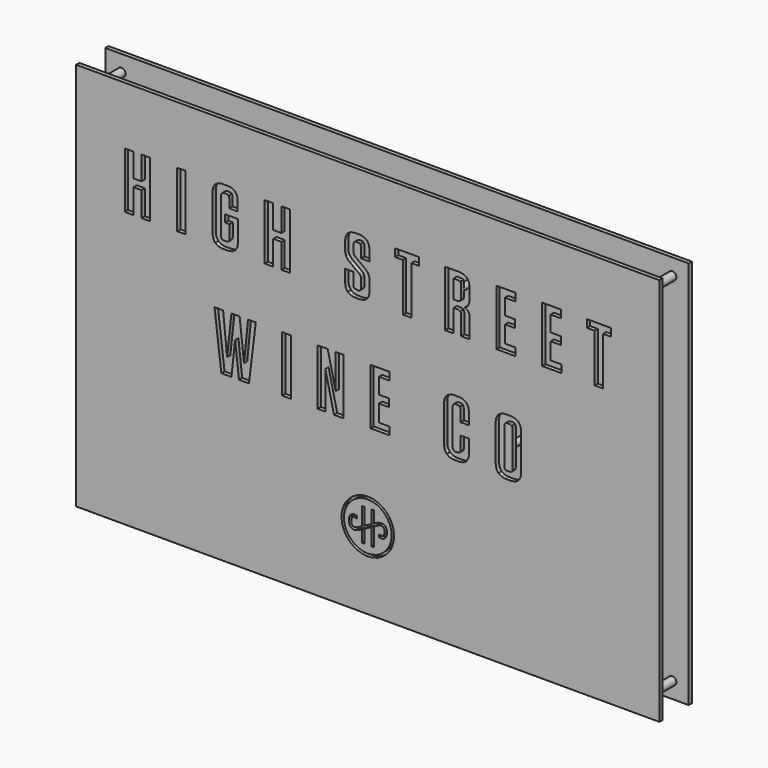
from build123d import *

# Parameters (mm, degrees)
F0_W     = 457.199644
F0_H     = 304.80127
F0_W_2   = 6.684772
F0_H_2   = 43.83532
F0_W_3   = 6.683248
F0_H_3   = 43.836082
F1_DEPTH = 3.175
F2_R     = 3.175
F2_R_2   = 2.38125
F3_DEPTH = 25.4
F4_W     = 457.2
F4_H     = 304.8
F5_DEPTH = 3.175


with BuildPart() as f1:
    # F0 (on Front) → F1 (new body)
    with BuildSketch(Plane.XZ):
        Rectangle(F0_W, F0_H)
        Polygon((-100.434064, 20.406741), (-97.055102, -10.837545), (-93.925568, 20.406741), (-87.793246, 20.406741), (-93.124706, -23.428579), (-100.985244, -23.428579), (-103.989302, 3.007487), (-106.8943, -23.428579), (-114.83053, -23.428579), (-120.16199, 20.406741), (-113.402796, 20.406741), (-110.271992, -10.837545), (-106.8943, 20.406741), align=None, mode=Mode.SUBTRACT)
        with Locations((-63.722428, -1.510919)):
            Rectangle(F0_W_2, F0_H_2, mode=Mode.SUBTRACT)
        Polygon((-19.200292, -23.428579), (-26.485774, -23.428579), (-33.294752, 6.061583), (-33.242174, -1.650111), (-33.242174, -23.428579), (-39.251814, -23.428579), (-39.251814, 20.406741), (-31.417692, 20.406741), (-25.1571, -6.630289), (-25.208408, 0.677291), (-25.208408, 20.406741), (-19.200292, 20.406741), align=None, mode=Mode.SUBTRACT)
        Polygon((-1.041578, -71.218933), (-0.002718, -71.218933), (1.035126, -71.218933), (4.152214, -71.637779), (8.02292, -72.843517), (11.528882, -74.748263), (14.585264, -77.271245), (17.106976, -80.326357), (19.011722, -83.830795), (20.215936, -87.700485), (20.637322, -90.813509), (20.637322, -91.852369), (20.637322, -92.890213), (20.215936, -96.007301), (19.011722, -99.878007), (17.106976, -103.383969), (14.585264, -106.440351), (11.528882, -108.962063), (8.02292, -110.866809), (4.152214, -112.071023), (1.035126, -112.491139), (-0.002718, -112.491139), (-1.041578, -112.491139), (-4.154602, -112.071023), (-8.024292, -110.866809), (-11.52873, -108.962063), (-14.583842, -106.440351), (-17.106824, -103.383969), (-19.011062, -99.878007), (-20.2168, -96.007301), (-20.6359, -92.890213), (-20.6359, -91.852369), (-20.6359, -90.813509), (-20.2168, -87.700485), (-19.011062, -83.830795), (-17.106824, -80.326357), (-14.583842, -77.271245), (-11.52873, -74.748263), (-8.024292, -72.843517), (-4.154602, -71.637779), align=None, mode=Mode.SUBTRACT)
        Polygon((1.979244, 20.406741), (16.872788, 20.406741), (16.872788, 14.322933), (8.688654, 14.322933), (8.688654, 1.931543), (16.57256, 1.931543), (16.57256, -4.151503), (8.688654, -4.151503), (8.688654, -17.370679), (17.024426, -17.370679), (17.024426, -23.428579), (1.979244, -23.428579), align=None, mode=Mode.SUBTRACT)
        Polygon((72.826702, -5.453507), (79.410382, -5.453507), (79.410382, -15.668879), (79.410382, -16.563213), (78.899842, -19.246469), (77.375842, -21.794089), (74.835842, -23.319867), (72.163762, -23.828375), (71.274762, -23.828375), (67.942282, -23.828375), (67.048202, -23.828375), (64.363422, -23.319867), (61.815802, -21.794089), (60.291802, -19.246469), (59.783802, -16.563213), (59.783802, -15.668879), (59.783802, 12.644247), (59.783802, 13.535787), (60.291802, 16.207867), (61.815802, 18.750153), (64.363422, 20.273137), (67.048202, 20.780121), (67.942282, 20.780121), (71.198562, 20.780121), (72.087562, 20.780121), (74.754562, 20.285583), (77.276782, 18.784697), (78.783002, 16.261715), (79.283382, 13.586841), (79.283382, 12.695047), (79.283382, 3.733927), (72.699702, 3.733927), (72.699702, 12.319127), (72.699702, 12.605639), (72.544762, 13.461365), (72.074862, 14.266037), (71.295082, 14.741525), (70.469582, 14.897227), (70.195262, 14.897227), (69.070042, 14.897227), (68.783022, 14.897227), (67.927042, 14.741525), (67.121862, 14.266037), (66.646882, 13.461365), (66.491942, 12.605639), (66.491942, 12.319127), (66.491942, -15.367381), (66.491942, -15.650845), (66.646882, -16.505301), (67.121862, -17.301845), (67.927042, -17.768951), (68.783022, -17.922113), (69.070042, -17.922113), (70.322262, -17.922113), (70.596582, -17.922113), (71.419542, -17.768951), (72.201862, -17.301845), (72.671762, -16.505301), (72.826702, -15.650845), (72.826702, -15.367381), align=None, mode=Mode.SUBTRACT)
        Polygon((112.918062, -23.828375), (112.029062, -23.828375), (108.473062, -23.828375), (107.576442, -23.828375), (104.878962, -23.319867), (102.321182, -21.794089), (100.792102, -19.244945), (100.286642, -16.561689), (100.286642, -15.668879), (100.286642, 12.644247), (100.286642, 13.535787), (100.792102, 16.207867), (102.321182, 18.750153), (104.878962, 20.274661), (107.576442, 20.781391), (108.473062, 20.781391), (112.029062, 20.781391), (112.918062, 20.781391), (115.590142, 20.274661), (118.132682, 18.750153), (119.654142, 16.207867), (120.162142, 13.535787), (120.162142, 12.644247), (120.162142, -15.668879), (120.162142, -16.561689), (119.654142, -19.244945), (118.132682, -21.794089), (115.590142, -23.319867), align=None, mode=Mode.SUBTRACT)
        Polygon((-183.813628, 88.623775), (-177.331294, 88.623775), (-177.331294, 107.099735), (-170.647792, 107.099735), (-170.647792, 63.263653), (-177.331294, 63.263653), (-177.331294, 82.541237), (-183.813628, 82.541237), (-183.813628, 63.263653), (-190.499924, 63.263653), (-190.499924, 107.099735), (-183.813628, 107.099735), align=None, mode=Mode.SUBTRACT)
        with Locations((-146.102248, 85.181694)):
            Rectangle(F0_W_3, F0_H_3, mode=Mode.SUBTRACT)
        Polygon((-108.363436, 81.412461), (-111.86762, 81.412461), (-111.86762, 87.196041), (-101.828524, 87.196041), (-101.828524, 71.023353), (-101.828524, 70.129019), (-102.337286, 67.446271), (-103.86408, 64.896619), (-106.413224, 63.371349), (-109.09648, 62.862587), (-109.990814, 62.862587), (-113.544528, 62.862587), (-114.436322, 62.862587), (-117.108402, 63.371349), (-119.650942, 64.896619), (-121.173418, 67.446271), (-121.680656, 70.129019), (-121.680656, 71.023353), (-121.680656, 99.337495), (-121.680656, 100.229035), (-121.173418, 102.901115), (-119.650942, 105.443655), (-117.108402, 106.965115), (-114.436322, 107.473115), (-113.544528, 107.473115), (-110.039074, 107.473115), (-109.151344, 107.473115), (-106.484852, 106.967655), (-103.96187, 105.448735), (-102.45565, 102.921435), (-101.955524, 100.272215), (-101.955524, 99.388295), (-101.955524, 92.328111), (-108.538442, 92.328111), (-108.538442, 99.012375), (-108.538442, 99.299395), (-108.691096, 100.152835), (-109.152868, 100.958015), (-109.934172, 101.432995), (-110.765006, 101.590475), (-111.04212, 101.590475), (-112.444962, 101.590475), (-112.730458, 101.590475), (-113.58339, 101.432995), (-114.378156, 100.958015), (-114.845516, 100.152835), (-114.9969, 99.299395), (-114.9969, 99.012375), (-114.9969, 71.325359), (-114.9969, 71.041387), (-114.845516, 70.186931), (-114.378156, 69.390387), (-113.58339, 68.923281), (-112.730458, 68.770119), (-112.444962, 68.770119), (-110.941536, 68.770119), (-110.656294, 68.770119), (-109.800568, 68.923281), (-108.995896, 69.390387), (-108.520408, 70.186931), (-108.363436, 71.041387), (-108.363436, 71.325359), align=None, mode=Mode.SUBTRACT)
        Polygon((-74.141, 88.623775), (-67.658666, 88.623775), (-67.658666, 107.099735), (-60.972624, 107.099735), (-60.972624, 63.263653), (-67.658666, 63.263653), (-67.658666, 82.541237), (-74.141, 82.541237), (-74.141, 63.263653), (-80.825772, 63.263653), (-80.825772, 107.099735), (-74.141, 107.099735), align=None, mode=Mode.SUBTRACT)
        Polygon((1.39606, 78.755621), (1.39606, 78.158975), (1.39606, 71.023353), (1.39606, 70.129019), (0.89187, 67.446271), (-0.626796, 64.898143), (-3.167812, 63.372619), (-5.848274, 62.864111), (-6.741084, 62.864111), (-9.694342, 62.864111), (-10.586136, 62.864111), (-13.256692, 63.371349), (-15.771546, 64.888491), (-17.263796, 67.415791), (-17.755794, 70.065519), (-17.755794, 70.948931), (-17.755794, 80.235425), (-11.247552, 80.235425), (-11.247552, 71.199883), (-11.247552, 70.925817), (-11.09439, 70.101587), (-10.62449, 69.318759), (-9.821342, 68.851653), (-8.95698, 68.695697), (-8.667674, 68.695697), (-7.817536, 68.695697), (-7.53204, 68.695697), (-6.676568, 68.851653), (-5.871642, 69.318759), (-5.396408, 70.101587), (-5.238928, 70.925817), (-5.238928, 71.199883), (-5.238928, 77.231621), (-5.238928, 77.528039), (-5.353736, 78.413737), (-5.69943, 79.328899), (-6.28363, 80.084041), (-6.89704, 80.625569), (-7.114718, 80.786859), (-13.873912, 85.745193), (-14.37988, 86.099269), (-15.760624, 87.353267), (-16.952646, 89.064719), (-17.576724, 91.007819), (-17.755794, 92.731463), (-17.755794, 93.304741), (-17.755794, 99.337495), (-17.755794, 100.229035), (-17.248556, 102.901115), (-15.724556, 105.443655), (-13.182016, 106.965115), (-10.51019, 107.473115), (-9.618396, 107.473115), (-6.789344, 107.473115), (-5.906186, 107.473115), (-3.25595, 106.967655), (-0.730174, 105.448735), (0.788492, 102.921435), (1.295476, 100.272215), (1.295476, 99.388295), (1.295476, 91.425141), (-5.287442, 91.425141), (-5.287442, 99.136835), (-5.287442, 99.416235), (-5.444414, 100.246815), (-5.914314, 101.026595), (-6.705524, 101.488875), (-7.540422, 101.641275), (-7.817536, 101.641275), (-8.643036, 101.641275), (-8.914308, 101.641275), (-9.728886, 101.488875), (-10.503078, 101.026595), (-10.967644, 100.246815), (-11.121822, 99.416235), (-11.121822, 99.136835), (-11.121822, 94.255971), (-11.121822, 93.955489), (-11.004728, 93.052519), (-10.653446, 92.118561), (-10.066452, 91.357831), (-9.4599, 90.830019), (-9.242222, 90.674317), (-2.459406, 85.745193), (-1.97452, 85.389593), (-0.632384, 84.161503), (0.556844, 82.485865), (1.20175, 80.544289), align=None, mode=Mode.SUBTRACT)
        Polygon((34.216162, 63.263653), (27.508022, 63.263653), (27.508022, 101.013895), (21.498382, 101.013895), (21.498382, 107.099735), (40.223262, 107.099735), (40.223262, 101.013895), (34.216162, 101.013895), align=None, mode=Mode.SUBTRACT)
        Polygon((79.801542, 78.707361), (79.801542, 78.158975), (79.801542, 63.263653), (73.116262, 63.263653), (73.116262, 78.033499), (73.116262, 78.349221), (72.946082, 79.295625), (72.425382, 80.166591), (71.541462, 80.674083), (70.601662, 80.836643), (70.289242, 80.836643), (67.259022, 80.836643), (67.259022, 63.263653), (60.550882, 63.263653), (60.550882, 107.099735), (71.592262, 107.099735), (72.483802, 107.099735), (75.166042, 106.596815), (77.706042, 105.077895), (79.222422, 102.535355), (79.727882, 99.855655), (79.727882, 98.961575), (79.727882, 90.674317), (79.727882, 90.037793), (79.473882, 88.123649), (78.734742, 86.220427), (77.538402, 84.858987), (76.349682, 84.112227), (75.922962, 83.939761), (76.380162, 83.815809), (77.688262, 83.184619), (78.892222, 82.007837), (79.580562, 80.351503), align=None, mode=Mode.SUBTRACT)
        Polygon((100.830202, 107.099735), (115.750162, 107.099735), (115.750162, 101.013895), (107.563742, 101.013895), (107.563742, 88.623775), (115.450442, 88.623775), (115.450442, 82.541237), (107.563742, 82.541237), (107.563742, 69.321553), (115.874622, 69.321553), (115.874622, 63.263653), (100.830202, 63.263653), align=None, mode=Mode.SUBTRACT)
        Polygon((136.705162, 107.099735), (151.625122, 107.099735), (151.625122, 101.013895), (143.410762, 101.013895), (143.410762, 88.623775), (151.300002, 88.623775), (151.300002, 82.541237), (143.410762, 82.541237), (143.410762, 69.321553), (151.726722, 69.321553), (151.726722, 63.263653), (136.705162, 63.263653), align=None, mode=Mode.SUBTRACT)
        Polygon((184.467322, 63.263653), (177.787122, 63.263653), (177.787122, 101.013895), (171.754622, 101.013895), (171.754622, 107.099735), (190.499822, 107.099735), (190.499822, 101.013895), (184.467322, 101.013895), align=None, mode=Mode.SUBTRACT)
        Polygon((111.228962, 14.897227), (110.952102, 14.897227), (109.572882, 14.897227), (109.288402, 14.897227), (108.432422, 14.741525), (107.627242, 14.266037), (107.152262, 13.461365), (106.997322, 12.605639), (106.997322, 12.319127), (106.997322, -15.367381), (106.997322, -15.650845), (107.152262, -16.505301), (107.627242, -17.301845), (108.432422, -17.768951), (109.288402, -17.922113), (109.572882, -17.922113), (110.952102, -17.922113), (111.228962, -17.922113), (112.064622, -17.768951), (112.854562, -17.301845), (113.324462, -16.505301), (113.479402, -15.650845), (113.479402, -15.367381), (113.479402, 12.319127), (113.479402, 12.605639), (113.324462, 13.461365), (112.854562, 14.266037), (112.064622, 14.741525), align=None)
        Polygon((-0.942518, -110.523401), (-0.002718, -110.523401), (0.936066, -110.523401), (3.755466, -110.143163), (7.25965, -109.054519), (10.431856, -107.330367), (13.196138, -105.049701), (15.479598, -102.285419), (17.20375, -99.114737), (18.293664, -95.611569), (18.674156, -92.792169), (18.674156, -91.852369), (18.674156, -90.912569), (18.293664, -88.094439), (17.20375, -84.592795), (15.479598, -81.423383), (13.196138, -78.659101), (10.431856, -76.378435), (7.25965, -74.655807), (3.755466, -73.565639), (0.936066, -73.186925), (-0.002718, -73.186925), (-0.942518, -73.186925), (-3.760394, -73.565639), (-7.262292, -74.655807), (-10.43018, -76.378435), (-13.193192, -78.659101), (-15.472334, -81.423383), (-17.193692, -84.592795), (-18.282336, -88.094439), (-18.66105, -90.912569), (-18.66105, -91.852369), (-18.66105, -92.792169), (-18.282336, -95.611569), (-17.193692, -99.114737), (-15.472334, -102.285419), (-13.193192, -105.049701), (-10.43018, -107.330367), (-7.262292, -109.054519), (-3.760394, -110.143163), align=None)
        Polygon((15.089708, -90.977339), (15.089708, -91.021535), (15.089708, -91.417013), (14.967026, -92.607511), (14.643176, -93.860239), (14.1748, -94.817819), (13.621842, -95.520891), (13.044754, -96.006031), (12.500432, -96.314641), (12.049582, -96.485329), (11.82657, -96.546035), (11.752148, -96.559751), (11.71608, -96.567879), (11.378514, -96.621981), (10.881182, -96.658811), (10.715828, -96.658811), (10.496626, -96.658811), (9.840798, -96.595311), (8.97415, -96.412431), (8.786444, -96.352995), (8.786444, -94.245811), (9.020632, -94.355031), (9.76917, -94.587695), (10.557332, -94.696661), (11.090732, -94.677357), (11.294694, -94.642813), (11.306886, -94.639003), (11.40747, -94.618175), (11.440744, -94.618175), (11.472494, -94.611063), (11.565966, -94.579567), (11.781104, -94.478729), (12.0539, -94.287467), (12.351588, -93.977587), (12.63937, -93.522673), (12.886258, -92.895547), (13.05847, -92.067507), (13.122986, -91.277567), (13.122986, -91.014423), (13.122986, -90.868373), (13.075234, -90.431747), (12.89718, -89.657301), (12.534722, -88.871679), (12.113082, -88.371553), (11.938076, -88.261063), (11.739956, -88.137111), (11.01631, -87.974551), (9.946716, -88.051767), (8.834704, -88.375617), (8.045272, -88.702007), (7.790256, -88.826213), (4.917008, -90.355801), (4.917008, -104.625267), (2.94927, -104.625267), (2.94927, -91.407107), (-2.748966, -94.425135), (-2.748966, -104.625267), (-4.71137, -104.625267), (-4.71137, -95.469837), (-6.71924, -96.532319), (-6.71924, -96.526731), (-6.725844, -96.532319), (-7.089572, -96.710119), (-8.784768, -97.331403), (-10.13808, -97.597341), (-10.588422, -97.597341), (-10.88484, -97.597341), (-11.772316, -97.447481), (-12.64887, -97.096961), (-12.809906, -96.997901), (-12.998628, -96.879537), (-13.505866, -96.431735), (-14.027074, -95.764731), (-14.39893, -95.049467), (-14.646834, -94.339791), (-14.797202, -93.684979), (-14.872894, -93.138117), (-14.90058, -92.753561), (-14.903374, -92.625545), (-14.903374, -92.582619), (-14.903374, -92.185617), (-14.783486, -90.995119), (-14.459636, -89.742645), (-13.99253, -88.784811), (-13.439572, -88.082247), (-12.862484, -87.595583), (-12.318162, -87.285703), (-11.866296, -87.113491), (-11.641506, -87.051261), (-11.565814, -87.037545), (-11.49825, -87.023829), (-11.202086, -86.979633), (-10.551592, -86.942295), (-9.66818, -87.004525), (-8.866302, -87.167085), (-8.606968, -87.251159), (-8.606968, -89.358089), (-8.841156, -89.247853), (-9.5869, -89.013411), (-10.376586, -88.904953), (-10.912272, -88.922479), (-11.116742, -88.955753), (-11.127664, -88.959817), (-11.22012, -88.985979), (-11.254156, -88.985979), (-11.28743, -88.991567), (-11.382172, -89.023317), (-11.600358, -89.125425), (-11.8729, -89.318211), (-12.170842, -89.628091), (-12.459894, -90.083259), (-12.706528, -90.710131), (-12.878994, -91.536901), (-12.94224, -92.326333), (-12.94224, -92.589731), (-12.94224, -92.734257), (-12.895758, -93.168597), (-12.717958, -93.942789), (-12.356516, -94.727141), (-11.93513, -95.225997), (-11.7586, -95.335979), (-11.559972, -95.458661), (-10.83404, -95.622745), (-9.761906, -95.547053), (-8.652434, -95.223203), (-7.865796, -94.895035), (-7.61078, -94.771337), (-4.71137, -93.234637), (-4.71137, -79.077947), (-2.748966, -79.077947), (-2.748966, -92.198317), (2.94927, -89.165303), (2.94927, -79.077947), (4.917008, -79.077947), (4.917008, -88.122125), (6.891604, -87.071835), (6.90532, -87.077423), (6.912432, -87.071835), (7.546416, -86.760685), (10.344988, -86.020529), (12.621844, -86.370541), (12.996494, -86.606253), (13.183692, -86.724617), (13.68966, -87.171403), (14.209344, -87.838153), (14.5812, -88.553417), (14.830628, -89.264363), (14.980742, -89.919175), (15.057958, -90.464767), (15.085644, -90.849069), align=None, mode=Mode.SUBTRACT)
        Polygon((70.812482, 101.163755), (70.540702, 101.163755), (67.259022, 101.163755), (67.259022, 86.669753), (70.289242, 86.669753), (70.591502, 86.669753), (71.495742, 86.836377), (72.346642, 87.338027), (72.849562, 88.181561), (73.017202, 89.077165), (73.017202, 89.374853), (73.017202, 98.636455), (73.017202, 98.915855), (72.864802, 99.748975), (72.407602, 100.538915), (71.632902, 101.008815), align=None)
    extrude(amount=F1_DEPTH)

    # F2 (on face) → F3 (join)
    with BuildSketch(Plane.XZ):
        with Locations((215.899822, 139.700635)):
            Circle(F2_R)
        with Locations((215.899822, -139.700635)):
            Circle(F2_R)
        with Locations((-215.899822, -139.700635)):
            Circle(F2_R)
        with Locations((-215.899822, 139.700635)):
            Circle(F2_R)
        with Locations((110.10635, -1.302195)):
            Circle(F2_R_2)
        with Locations((70.08748, 93.9429)):
            Circle(F2_R_2)
        with Locations((-9.878148, -82.08405)):
            Circle(F2_R_2)
        with Locations((10.014756, -102.001566)):
            Circle(F2_R_2)
    extrude(amount=-F3_DEPTH)


with BuildPart() as f5:
    # F4 (on face) → F5 (new body)
    with BuildSketch(Plane(origin=(0, 25.4, 0), x_dir=(-1, 0, 0), z_dir=(0, 1, 0))):
        with Locations((-0.01282, -0.008209)):
            Rectangle(F4_W, F4_H)
    extrude(amount=F5_DEPTH)


solid = Compound([f1.part, f5.part])
